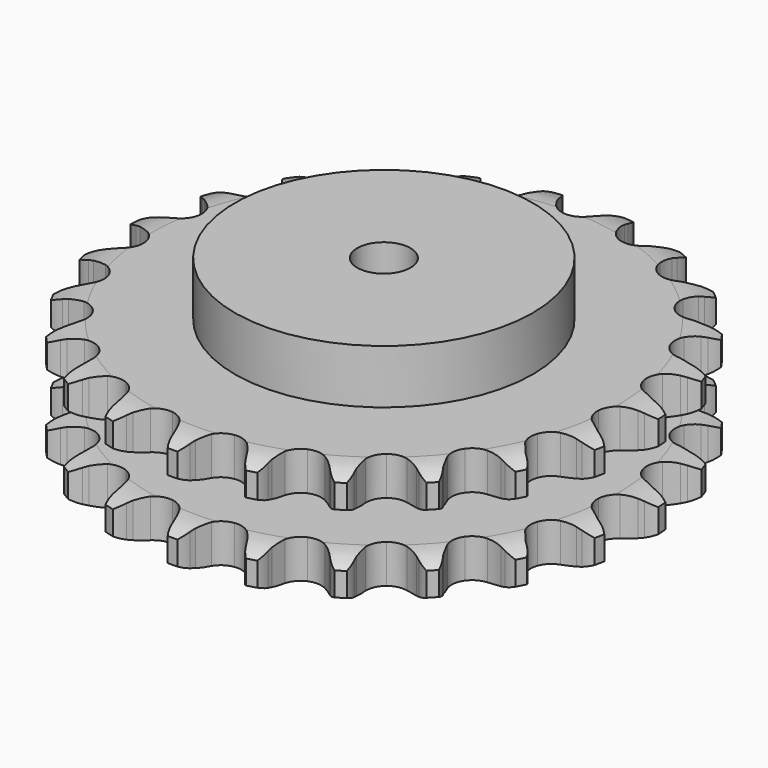
from build123d import *

# Parameters (mm, degrees)
PAD_DEPTH         = 54.6
SKETCH001_R       = 70
PAD001_DEPTH      = 80
SKETCH002_R       = 12.5
POCKET_DEPTH      = 0.001
POCKET_DEPTH_BACK = 80.001


with BuildPart() as part:
    # Sprocket → Pad (new body)
    with BuildSketch(Plane.XY):
        with BuildLine():
            ThreePointArc((-17.276327, 125.694616), (-14.094388, 122.649469), (-11.884589, 118.839685))
            Line((-11.884589, 118.839685), (-10.961037, 116.5588))
            ThreePointArc((-10.961037, 116.5588), (-9.485893, 113.525547), (-7.613588, 110.719989))
            ThreePointArc((-7.613588, 110.719989), (-4.242537, 107.961457), (0, 106.974357))
            ThreePointArc((0, 106.974357), (4.242537, 107.961457), (7.613588, 110.719989))
            ThreePointArc((7.613588, 110.719989), (9.485893, 113.525547), (10.961037, 116.5588))
            Line((10.961037, 116.5588), (11.884589, 118.839685))
            ThreePointArc((11.884589, 118.839685), (14.094388, 122.649469), (17.276327, 125.694616))
            ThreePointArc((17.276327, 125.694616), (19.518701, 121.903914), (20.618687, 117.639211))
            Line((20.618687, 117.639211), (20.892615, 115.193736))
            ThreePointArc((20.892615, 115.193736), (21.494696, 111.874975), (22.54064, 108.668313))
            ThreePointArc((22.54064, 108.668313), (25.04244, 105.102576), (28.861336, 103.007458))
            ThreePointArc((28.861336, 103.007458), (33.212865, 102.81333), (37.203151, 104.56007))
            Line((37.203151, 104.56007), (42.00176, 109.279231))
            ThreePointArc((42.00176, 109.279231), (42.729984, 110.271433), (43.506439, 111.226364))
            ThreePointArc((43.506439, 111.226364), (46.66216, 114.298674), (50.547676, 116.372421))
            ThreePointArc((50.547676, 116.372421), (51.684177, 112.117304), (51.59277, 107.713975))
            Line((51.59277, 107.713975), (51.196759, 105.285279))
            ThreePointArc((51.196759, 105.285279), (50.881121, 101.927148), (51.023132, 98.557205))
            ThreePointArc((51.023132, 98.557205), (52.470134, 94.448718), (55.582159, 91.400967))
            ThreePointArc((55.582159, 91.400967), (59.719946, 90.04001), (64.033527, 90.645409))
            Line((64.033527, 90.645409), (69.927405, 93.894921))
            ThreePointArc((69.927405, 93.894921), (70.896317, 94.653858), (71.901616, 95.363891))
            ThreePointArc((71.901616, 95.363891), (75.769214, 97.470869), (80.070134, 98.419417))
            ThreePointArc((80.070134, 98.419417), (80.016474, 94.015466), (78.740452, 89.800086))
            Line((78.740452, 89.800086), (77.703872, 87.568295))
            ThreePointArc((77.703872, 87.568295), (76.493927, 84.41985), (75.721472, 81.136561))
            ThreePointArc((75.721472, 81.136561), (76.006359, 76.79003), (78.180708, 73.015684))
            ThreePointArc((78.180708, 73.015684), (81.797872, 70.588833), (86.114829, 70.007993))
            Line((86.114829, 70.007993), (92.666853, 71.546855))
            ThreePointArc((92.666853, 71.546855), (93.804594, 72.016238), (94.964179, 72.428716))
            ThreePointArc((94.964179, 72.428716), (99.256811, 73.414095), (103.654157, 73.167094))
            ThreePointArc((103.654157, 73.167094), (102.414316, 68.940931), (100.048316, 65.226135))
            Line((100.048316, 65.226135), (98.448045, 63.356772))
            ThreePointArc((98.448045, 63.356772), (96.433527, 60.651519), (94.803896, 57.698388))
            ThreePointArc((94.803896, 57.698388), (93.905539, 53.436178), (94.980951, 49.215162))
            ThreePointArc((94.980951, 49.215162), (97.809225, 45.902406), (101.809388, 44.178404))
            Line((101.809388, 44.178404), (108.533625, 43.892486))
            ThreePointArc((108.533625, 43.892486), (109.755814, 44.037504), (110.983684, 44.121833))
            ThreePointArc((110.983684, 44.121833), (115.382985, 43.912534), (119.550626, 42.488303))
            ThreePointArc((119.550626, 42.488303), (117.216555, 38.753362), (113.936054, 35.81466))
            Line((113.936054, 35.81466), (111.890777, 34.446366))
            ThreePointArc((111.890777, 34.446366), (109.221094, 32.384942), (106.85515, 29.98099))
            ThreePointArc((106.85515, 29.98099), (104.840175, 26.119208), (104.736891, 21.764576))
            ThreePointArc((104.736891, 21.764576), (106.566514, 17.811607), (109.95321, 15.072305))
            Line((109.95321, 15.072305), (116.350955, 12.982811))
            ThreePointArc((116.350955, 12.982811), (117.566947, 12.79271), (118.772036, 12.542637))
            ThreePointArc((118.772036, 12.542637), (122.951731, 11.154181), (126.580571, 8.658348))
            ThreePointArc((126.580571, 8.658348), (123.32538, 5.691635), (119.373675, 3.746976))
            Line((119.373675, 3.746976), (117.035082, 2.981231))
            ThreePointArc((117.035082, 2.981231), (113.908233, 1.716521), (110.981445, 0.04004))
            ThreePointArc((110.981445, 0.04004), (107.999295, -3.134904), (106.724975, -7.300188))
            ThreePointArc((106.724975, -7.300188), (107.420253, -11.600197), (109.942306, -15.151638))
            Line((109.942306, -15.151638), (115.539067, -18.889738))
            ThreePointArc((115.539067, -18.889738), (116.658678, -19.400861), (117.751609, -19.96679))
            ThreePointArc((117.751609, -19.96679), (121.40171, -22.431426), (124.222615, -25.813756))
            ThreePointArc((124.222615, -25.813756), (120.287725, -27.792216), (115.957898, -28.598604))
            Line((115.957898, -28.598604), (113.49943, -28.705009))
            ThreePointArc((113.49943, -28.705009), (110.147318, -29.079205), (106.876755, -29.903881))
            ThreePointArc((106.876755, -29.903881), (103.148601, -32.156514), (100.797757, -35.823531))
            ThreePointArc((100.797757, -35.823531), (100.307123, -40.151668), (101.777484, -44.251853))
            Line((101.777484, -44.251853), (106.158174, -49.361323))
            ThreePointArc((106.158174, -49.361323), (107.098368, -50.155559), (107.998085, -50.995371))
            ThreePointArc((107.998085, -50.995371), (110.847879, -54.353397), (112.651635, -58.371372))
            ThreePointArc((112.651635, -58.371372), (108.328879, -59.214845), (103.942053, -58.823157))
            Line((103.942053, -58.823157), (101.546045, -58.262329))
            ThreePointArc((101.546045, -58.262329), (98.217281, -57.71826), (94.845504, -57.629967))
            ThreePointArc((94.845504, -57.629967), (90.647848, -58.793223), (87.394829, -61.690007))
            ThreePointArc((87.394829, -61.690007), (85.754672, -65.725273), (86.064292, -70.070111))
            Line((86.064292, -70.070111), (88.904016, -76.172004))
            ThreePointArc((88.904016, -76.172004), (89.595062, -77.190449), (90.234836, -78.241859))
            ThreePointArc((90.234836, -78.241859), (92.072968, -82.244225), (92.725799, -86.599851))
            ThreePointArc((92.725799, -86.599851), (88.335777, -86.24578), (84.217302, -84.685065))
            Line((84.217302, -84.685065), (82.061454, -83.498598))
            ThreePointArc((82.061454, -83.498598), (79.002918, -82.076616), (75.779997, -81.081902))
            ThreePointArc((75.779997, -81.081902), (71.424158, -81.069507), (67.510227, -82.981217))
            ThreePointArc((67.510227, -82.981217), (64.84219, -86.424335), (63.968104, -90.691589))
            Line((63.968104, -90.691589), (65.056253, -97.333356))
            ThreePointArc((65.056253, -97.333356), (65.4469, -98.500476), (65.779283, -99.685506))
            ThreePointArc((65.779283, -99.685506), (66.469426, -104.035376), (65.922915, -108.405615))
            ThreePointArc((65.922915, -108.405615), (61.791214, -106.88026), (58.246539, -104.266269))
            Line((58.246539, -104.266269), (56.49074, -102.542159))
            ThreePointArc((56.49074, -102.542159), (53.929269, -100.347724), (51.094233, -98.520364))
            ThreePointArc((51.094233, -98.520364), (46.903265, -97.333237), (42.618701, -98.11809))
            ThreePointArc((42.618701, -98.11809), (39.120659, -100.7137), (37.127696, -104.586887))
            Line((37.127696, -104.586887), (36.383566, -111.275938))
            ThreePointArc((36.383566, -111.275938), (36.444841, -112.505173), (36.445181, -113.735935))
            ThreePointArc((36.445181, -113.735935), (35.936151, -118.110698), (34.230829, -122.17143))
            ThreePointArc((34.230829, -122.17143), (30.663879, -119.58792), (27.955897, -116.114521))
            Line((27.955897, -116.114521), (26.730367, -113.980637))
            ThreePointArc((26.730367, -113.980637), (24.855934, -111.176501), (22.619044, -108.652021))
            ThreePointArc((22.619044, -108.652021), (18.903772, -106.378206), (14.56634, -105.977992))
            ThreePointArc((14.56634, -105.977992), (10.497728, -107.53359), (7.533695, -110.725454))
            Line((7.533695, -110.725454), (5.012476, -116.965693))
            ThreePointArc((5.012476, -116.965693), (4.739835, -118.165877), (4.408107, -119.351091))
            ThreePointArc((4.408107, -119.351091), (2.737656, -123.426291), (0, -126.876349))
            ThreePointArc((0, -126.876349), (-2.737656, -123.426291), (-4.408107, -119.351091))
            Line((-4.408107, -119.351091), (-5.012476, -116.965693))
            ThreePointArc((-5.012476, -116.965693), (-6.060853, -113.759826), (-7.533695, -110.725454))
            ThreePointArc((-7.533695, -110.725454), (-10.497728, -107.53359), (-14.56634, -105.977992))
            ThreePointArc((-14.56634, -105.977992), (-18.903772, -106.378206), (-22.619044, -108.652021))
            Line((-22.619044, -108.652021), (-26.730367, -113.980637))
            ThreePointArc((-26.730367, -113.980637), (-27.316703, -115.062758), (-27.955897, -116.114521))
            ThreePointArc((-27.955897, -116.114521), (-30.663879, -119.58792), (-34.230829, -122.17143))
            ThreePointArc((-34.230829, -122.17143), (-35.936151, -118.110698), (-36.445181, -113.735935))
            Line((-36.445181, -113.735935), (-36.383566, -111.275938))
            ThreePointArc((-36.383566, -111.275938), (-36.528134, -107.906104), (-37.127696, -104.586887))
            ThreePointArc((-37.127696, -104.586887), (-39.120659, -100.7137), (-42.618701, -98.11809))
            ThreePointArc((-42.618701, -98.11809), (-46.903265, -97.333237), (-51.094233, -98.520364))
            Line((-51.094233, -98.520364), (-56.49074, -102.542159))
            ThreePointArc((-56.49074, -102.542159), (-57.347286, -103.42596), (-58.246539, -104.266269))
            ThreePointArc((-58.246539, -104.266269), (-61.791214, -106.88026), (-65.922915, -108.405615))
            ThreePointArc((-65.922915, -108.405615), (-66.469426, -104.035376), (-65.779283, -99.685506))
            Line((-65.779283, -99.685506), (-65.056253, -97.333356))
            ThreePointArc((-65.056253, -97.333356), (-64.28629, -94.049481), (-63.968104, -90.691589))
            ThreePointArc((-63.968104, -90.691589), (-64.84219, -86.424335), (-67.510227, -82.981217))
            ThreePointArc((-67.510227, -82.981217), (-71.424158, -81.069507), (-75.779997, -81.081902))
            Line((-75.779997, -81.081902), (-82.061454, -83.498598))
            ThreePointArc((-82.061454, -83.498598), (-83.124683, -84.118533), (-84.217302, -84.685065))
            ThreePointArc((-84.217302, -84.685065), (-88.335777, -86.24578), (-92.725799, -86.599851))
            ThreePointArc((-92.725799, -86.599851), (-92.072968, -82.244225), (-90.234836, -78.241859))
            Line((-90.234836, -78.241859), (-88.904016, -76.172004))
            ThreePointArc((-88.904016, -76.172004), (-87.276626, -73.217637), (-86.064292, -70.070111))
            ThreePointArc((-86.064292, -70.070111), (-85.754672, -65.725273), (-87.394829, -61.690007))
            ThreePointArc((-87.394829, -61.690007), (-90.647848, -58.793223), (-94.845504, -57.629967))
            Line((-94.845504, -57.629967), (-101.546045, -58.262329))
            ThreePointArc((-101.546045, -58.262329), (-102.737103, -58.572418), (-103.942053, -58.823157))
            ThreePointArc((-103.942053, -58.823157), (-108.328879, -59.214845), (-112.651635, -58.371372))
            ThreePointArc((-112.651635, -58.371372), (-110.847879, -54.353397), (-107.998085, -50.995371))
            Line((-107.998085, -50.995371), (-106.158174, -49.361323))
            ThreePointArc((-106.158174, -49.361323), (-103.794054, -46.955577), (-101.777484, -44.251853))
            ThreePointArc((-101.777484, -44.251853), (-100.307123, -40.151668), (-100.797757, -35.823531))
            ThreePointArc((-100.797757, -35.823531), (-103.148601, -32.156514), (-106.876755, -29.903881))
            Line((-106.876755, -29.903881), (-113.49943, -28.705009))
            ThreePointArc((-113.49943, -28.705009), (-114.729982, -28.682255), (-115.957898, -28.598604))
            ThreePointArc((-115.957898, -28.598604), (-120.287725, -27.792216), (-124.222615, -25.813756))
            ThreePointArc((-124.222615, -25.813756), (-121.40171, -22.431426), (-117.751609, -19.96679))
            Line((-117.751609, -19.96679), (-115.539067, -18.889738))
            ThreePointArc((-115.539067, -18.889738), (-112.613552, -17.211036), (-109.942306, -15.151638))
            ThreePointArc((-109.942306, -15.151638), (-107.420253, -11.600197), (-106.724975, -7.300188))
            ThreePointArc((-106.724975, -7.300188), (-107.999295, -3.134904), (-110.981445, 0.04004))
            Line((-110.981445, 0.04004), (-117.035082, 2.981231))
            ThreePointArc((-117.035082, 2.981231), (-118.213863, 3.335139), (-119.373675, 3.746976))
            ThreePointArc((-119.373675, 3.746976), (-123.32538, 5.691635), (-126.580571, 8.658348))
            ThreePointArc((-126.580571, 8.658348), (-122.951731, 11.154181), (-118.772036, 12.542637))
            Line((-118.772036, 12.542637), (-116.350955, 12.982811))
            ThreePointArc((-116.350955, 12.982811), (-113.081018, 13.809969), (-109.95321, 15.072305))
            ThreePointArc((-109.95321, 15.072305), (-106.566514, 17.811607), (-104.736891, 21.764576))
            ThreePointArc((-104.736891, 21.764576), (-104.840175, 26.119208), (-106.85515, 29.98099))
            Line((-106.85515, 29.98099), (-111.890777, 34.446366))
            ThreePointArc((-111.890777, 34.446366), (-112.930362, 35.105182), (-113.936054, 35.81466))
            ThreePointArc((-113.936054, 35.81466), (-117.216555, 38.753362), (-119.550626, 42.488303))
            ThreePointArc((-119.550626, 42.488303), (-115.382985, 43.912534), (-110.983684, 44.121833))
            Line((-110.983684, 44.121833), (-108.533625, 43.892486))
            ThreePointArc((-108.533625, 43.892486), (-105.161782, 43.806751), (-101.809388, 44.178404))
            ThreePointArc((-101.809388, 44.178404), (-97.809225, 45.902406), (-94.980951, 49.215162))
            ThreePointArc((-94.980951, 49.215162), (-93.905539, 53.436178), (-94.803896, 57.698388))
            Line((-94.803896, 57.698388), (-98.448045, 63.356772))
            ThreePointArc((-98.448045, 63.356772), (-99.271333, 64.271633), (-100.048316, 65.226135))
            ThreePointArc((-100.048316, 65.226135), (-102.414316, 68.940931), (-103.654157, 73.167094))
            ThreePointArc((-103.654157, 73.167094), (-99.256811, 73.414095), (-94.964179, 72.428716))
            Line((-94.964179, 72.428716), (-92.666853, 71.546855))
            ThreePointArc((-92.666853, 71.546855), (-89.443178, 70.554587), (-86.114829, 70.007993))
            ThreePointArc((-86.114829, 70.007993), (-81.797872, 70.588833), (-78.180708, 73.015684))
            ThreePointArc((-78.180708, 73.015684), (-76.006359, 76.79003), (-75.721472, 81.136561))
            Line((-75.721472, 81.136561), (-77.703872, 87.568295))
            ThreePointArc((-77.703872, 87.568295), (-78.249804, 88.671352), (-78.740452, 89.800086))
            ThreePointArc((-78.740452, 89.800086), (-80.016474, 94.015466), (-80.070134, 98.419417))
            ThreePointArc((-80.070134, 98.419417), (-75.769214, 97.470869), (-71.901616, 95.363891))
            Line((-71.901616, 95.363891), (-69.927405, 93.894921))
            ThreePointArc((-69.927405, 93.894921), (-67.090983, 92.069712), (-64.033527, 90.645409))
            ThreePointArc((-64.033527, 90.645409), (-59.719946, 90.04001), (-55.582159, 91.400967))
            ThreePointArc((-55.582159, 91.400967), (-52.470134, 94.448718), (-51.023132, 98.557205))
            Line((-51.023132, 98.557205), (-51.196759, 105.285279))
            ThreePointArc((-51.196759, 105.285279), (-51.424844, 106.494722), (-51.59277, 107.713975))
            ThreePointArc((-51.59277, 107.713975), (-51.684177, 112.117304), (-50.547676, 116.372421))
            ThreePointArc((-50.547676, 116.372421), (-46.66216, 114.298674), (-43.506439, 111.226364))
            Line((-43.506439, 111.226364), (-42.00176, 109.279231))
            ThreePointArc((-42.00176, 109.279231), (-39.762956, 106.756448), (-37.203151, 104.56007))
            ThreePointArc((-37.203151, 104.56007), (-33.212865, 102.81333), (-28.861336, 103.007458))
            ThreePointArc((-28.861336, 103.007458), (-25.04244, 105.102576), (-22.54064, 108.668313))
            Line((-22.54064, 108.668313), (-20.892615, 115.193736))
            ThreePointArc((-20.892615, 115.193736), (-20.785939, 116.419866), (-20.618687, 117.639211))
            ThreePointArc((-20.618687, 117.639211), (-19.518701, 121.903914), (-17.276327, 125.694616))
        make_face()
    extrude(amount=PAD_DEPTH)

    # Sketch → Groove (revolve, cut)
    with BuildSketch(Plane.XZ):
        with BuildLine():
            ThreePointArc((109.598368, 0), (117.081683, 0.887302), (124.15, 3.5))
            Line((124.15, 3.5), (124.15, 14.7))
            ThreePointArc((124.15, 14.7), (117.081683, 17.312698), (109.598368, 18.2))
            Line((70, 18.2), (109.598368, 18.2))
            Line((70, 36.4), (70, 18.2))
            Line((109.598368, 36.4), (70, 36.4))
            ThreePointArc((109.598368, 36.4), (117.081683, 37.287302), (124.15, 39.9))
            Line((124.15, 39.9), (124.15, 51.1))
            ThreePointArc((124.15, 51.1), (117.081683, 53.712698), (109.598368, 54.6))
            Line((109.598368, 54.6), (134.15, 54.6))
            Line((134.15, 54.6), (134.15, 0))
            Line((109.598368, 0), (134.15, 0))
        make_face()
    revolve(axis=Axis((0, 0, 0), (0, 0, 1)), mode=Mode.SUBTRACT)

    # Sketch001 → Pad001 (join)
    with BuildSketch(Plane.XY):
        Circle(SKETCH001_R)
    extrude(amount=PAD001_DEPTH)

    # Sketch002 → Pocket (cut, two sides)
    with BuildSketch(Plane.XY) as pocket_sk:
        Circle(SKETCH002_R)
    extrude(amount=-POCKET_DEPTH, mode=Mode.SUBTRACT)
    extrude(pocket_sk.sketch, amount=POCKET_DEPTH_BACK, mode=Mode.SUBTRACT)


solid = part.part
